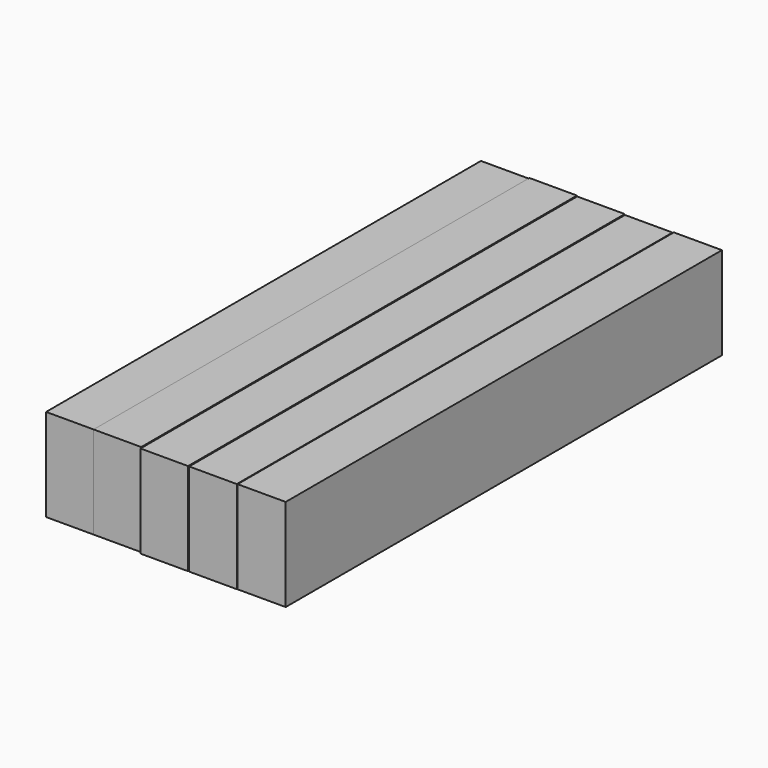
from build123d import *

# Parameters (mm, degrees)
F0_W     = 13.0496844649
F0_H     = 149.1392925382
F5_DEPTH = 25.4
F1_W     = 13.0496919155
F1_H     = 149.4499966502
F2_W     = 13.0496881902
F2_H     = 149.4499966502
F3_W     = 13.0496881902
F3_H     = 149.7607082129
F4_W     = 13.1932226941
F4_H     = 149.6167555451


with BuildPart() as f5:
    # F0 (on Top) → F5 (new body)
    with BuildSketch(Plane.XY):
        with Locations((-69.8602385819, 1.838054508)):
            Rectangle(F0_W, F0_H)
    extrude(amount=F5_DEPTH)


with BuildPart() as f5b:
    # F1 (on Top) → F5, piece 2 (new body)
    with BuildSketch(Plane.XY):
        with Locations((-56.8105503917, 1.993406564)):
            Rectangle(F1_W, F1_H)
    extrude(amount=F5_DEPTH)


with BuildPart() as f5c:
    # F2 (on Top) → F5, piece 3 (new body)
    with BuildSketch(Plane.XY):
        with Locations((-30.0897601992, 1.3719908893)):
            Rectangle(F2_W, F2_H)
    extrude(amount=F5_DEPTH)


with BuildPart() as f5d:
    # F3 (on Top) → F5, piece 4 (new body)
    with BuildSketch(Plane.XY):
        with Locations((-43.4501562268, 1.5273466706)):
            Rectangle(F3_W, F3_H)
    extrude(amount=F5_DEPTH)


with BuildPart() as f5e:
    # F4 (on Top) → F5, piece 5 (new body)
    with BuildSketch(Plane.XY):
        with Locations((-16.7945981957, 1.5223808587)):
            Rectangle(F4_W, F4_H)
    extrude(amount=F5_DEPTH)


solid = Compound([f5.part, f5b.part, f5c.part, f5d.part, f5e.part])
